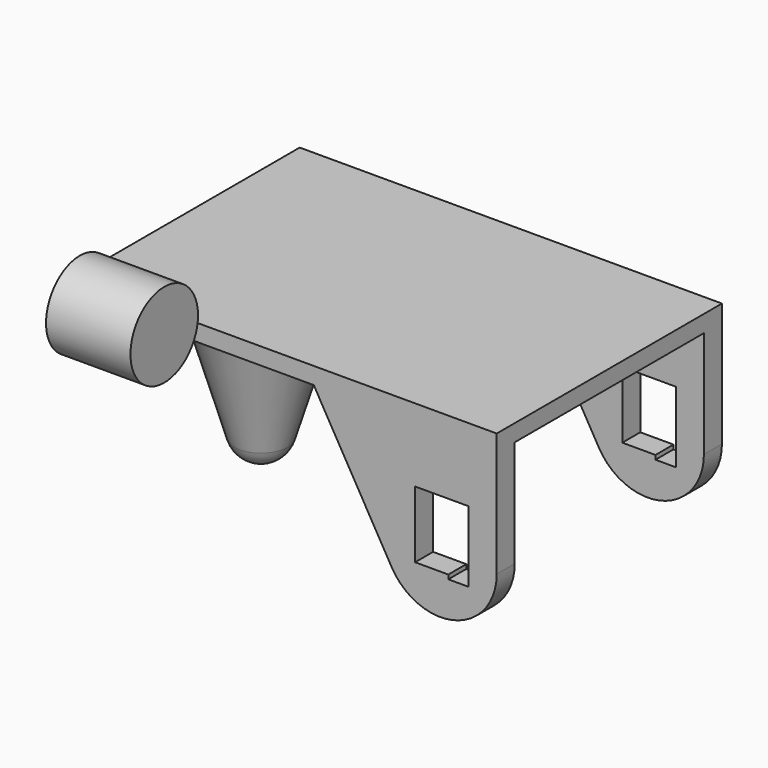
from build123d import *

# Parameters (mm, degrees)
F0_W     = 150
F0_H     = 100
F1_DEPTH = 6
F5_DEPTH = 100
F3_W     = 171.0709459866
F3_H     = 84
F6_DEPTH = 200
F8_R     = 15
F9_DEPTH = 30


with BuildPart() as f1:
    # F0 (on Top) → F1 (new body)
    with BuildSketch(Plane.XY):
        Rectangle(F0_W, F0_H)
    extrude(amount=F1_DEPTH)

    # F2 (on face) → F5 (join)
    with BuildSketch(Plane.XZ.offset(50)):
        with BuildLine():
            Line((75, 0), (10, 0))
            Line((10, 0), (37.6794919243, -47.9422863406))
            ThreePointArc((37.6794919243, -47.9422863406), (60.1763809021, -57.2608028664), (75, -37.9422863406))
            Line((75, -37.9422863406), (75, 0))
        make_face()
        Polygon((46, -20), (65, -20), (65, -45.2), (57.8, -45.2), (57.8, -43.7), (46, -43.7), align=None, mode=Mode.SUBTRACT)
    extrude(amount=-F5_DEPTH)

    # F3 (on Top) → F6 (cut)
    with BuildSketch(Plane.XY):
        with Locations((25.0738235191, 0)):
            Rectangle(F3_W, F3_H)
    extrude(amount=-F6_DEPTH, mode=Mode.SUBTRACT)

    # F4 (on Front) → F7 (revolve)
    with BuildSketch(Plane.XZ):
        with BuildLine():
            Line((-48.7436212599, 0), (-75, 0))
            Line((-75, 0), (-58.2256204143, -55.7750751688))
            ThreePointArc((-58.2256204143, -55.7750751688), (-58.2296045097, -50.0849254651), (-55.1008508317, -45.3321662722))
            Line((-55.1008508317, -45.3321662722), (-66.9300179817, -6))
            Line((-66.9300179817, -6), (-48.7436212599, -6))
            Line((-48.7436212599, -6), (-48.7436212599, 0))
        make_face()
        with BuildLine():
            ThreePointArc((-55.1008508317, -45.3321662722), (-58.2296045097, -50.0849254651), (-58.2256204143, -55.7750751688))
            ThreePointArc((-58.2256204143, -55.7750751688), (-54.6514212532, -60.8693328985), (-48.7436212599, -62.8249046049))
            Line((-48.7436212599, -62.8249046049), (-48.7436212599, -52.923359872))
            Line((-48.7436212599, -52.923359872), (-52.8177958548, -52.923359872))
            Line((-52.8177958548, -52.923359872), (-55.1008508317, -45.3321662722))
        make_face()
    revolve(axis=Axis((-48.7436212599, 0, -43.6514355242), (0, 0, -1)))


with BuildPart() as f9:
    # F8 (on Right) → F9 (new body)
    with BuildSketch(Plane.YZ):
        with Locations((-141.3987129927, 59.3939572573)):
            Circle(F8_R)
    extrude(amount=F9_DEPTH)


solid = Compound([f1.part, f9.part])
